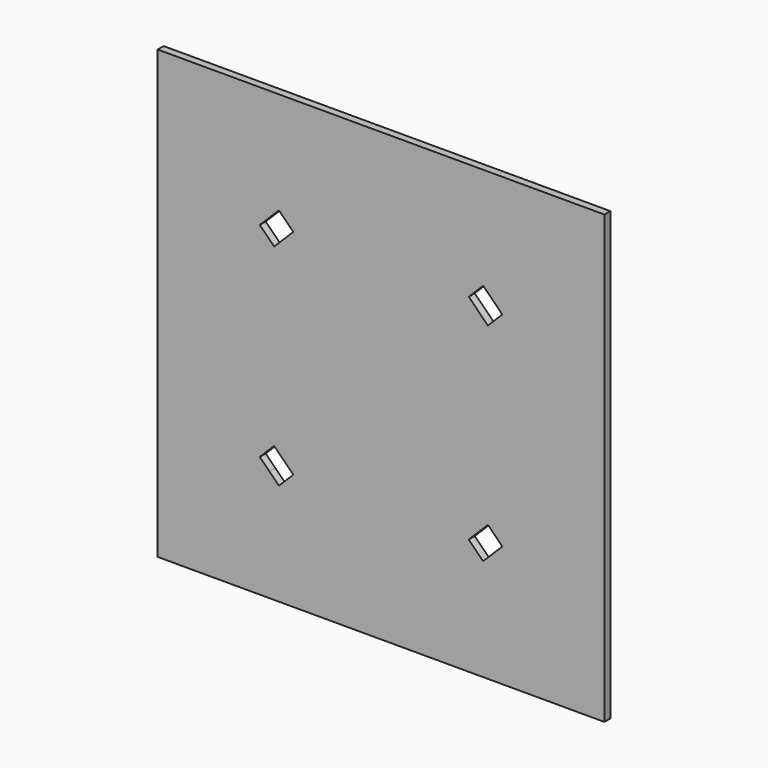
from build123d import *

# Parameters (mm, degrees)
F0_W     = 254
F0_H     = 254
F1_DEPTH = 25.4


with BuildPart() as f1:
    # F0 (on Front) → F1 (new body)
    with BuildSketch(Plane.XZ):
        Polygon((-306.2196969569, 817.159200755), (-611.0196969569, 817.159200755), (-611.0196969569, 512.359200755), (-611.0196969569, 207.559200755), (-611.0196969569, -706.840799245), (912.9803030431, -706.840799245), (912.9803030431, 817.159200755), (-1.4196969569, 817.159200755), align=None)
        with Locations((-153.8196969569, -554.440799245)):
            Rectangle(F0_W, F0_H, mode=Mode.SUBTRACT)
        with Locations((-458.6196969569, -249.640799245)):
            Rectangle(F0_W, F0_H, mode=Mode.SUBTRACT)
        with Locations((455.7803030431, -554.440799245)):
            Rectangle(F0_W, F0_H, mode=Mode.SUBTRACT)
        with Locations((760.5803030431, -249.640799245)):
            Rectangle(F0_W, F0_H, mode=Mode.SUBTRACT)
        with Locations((-458.6196969569, 359.959200755)):
            Rectangle(F0_W, F0_H, mode=Mode.SUBTRACT)
        Polygon((608.1803030431, 512.359200755), (608.1803030431, -402.040799245), (-306.2196969569, -402.040799245), (-306.2196969569, 207.559200755), (-306.2196969569, 512.359200755), (-1.4196969569, 512.359200755), align=None, mode=Mode.SUBTRACT)
        with Locations((-153.8196969569, 664.759200755)):
            Rectangle(F0_W, F0_H, mode=Mode.SUBTRACT)
        with Locations((760.5803030431, 359.959200755)):
            Rectangle(F0_W, F0_H, mode=Mode.SUBTRACT)
        with Locations((455.7803030431, 664.759200755)):
            Rectangle(F0_W, F0_H, mode=Mode.SUBTRACT)
        Polygon((-306.2196969569, -402.040799245), (608.1803030431, -402.040799245), (608.1803030431, 512.359200755), (-1.4196969569, 512.359200755), (-306.2196969569, 512.359200755), (-306.2196969569, 207.559200755), align=None)
        Polygon((-179.2196969569, 486.959200755), (582.7803030431, 486.959200755), (582.7803030431, -376.640799245), (-280.8196969569, -376.640799245), (-280.8196969569, 385.359200755), (-280.8196969569, 486.959200755), align=None, mode=Mode.SUBTRACT)
        Polygon((582.7803030431, -376.640799245), (582.7803030431, 486.959200755), (-179.2196969569, 486.959200755), (-280.8196969569, 486.959200755), (-280.8196969569, 385.359200755), (-280.8196969569, -376.640799245), align=None)
        Polygon((-262.662927957, -293.197568245), (-213.6666505604, -244.2012908484), (-148.3801885602, -309.4877528486), (-197.3764659568, -358.4840302451), (-230.0196969569, -325.840799245), align=None, mode=Mode.SUBTRACT)
        Polygon((450.3407946465, -309.4877528486), (515.6272566467, -244.2012908484), (564.6235340432, -293.197568245), (531.9803030431, -325.840799245), (499.337072043, -358.4840302451), align=None, mode=Mode.SUBTRACT)
        Polygon((-230.0196969569, 436.159200755), (-197.3764659568, 468.802431755), (-148.3801885602, 419.8061543585), (-213.6666505604, 354.5196923583), (-262.662927957, 403.5159697549), align=None, mode=Mode.SUBTRACT)
        Polygon((564.6235340432, 403.5159697549), (515.6272566467, 354.5196923583), (450.3407946465, 419.8061543585), (499.337072043, 468.802431755), (531.9803030431, 436.159200755), align=None, mode=Mode.SUBTRACT)
        with Locations((-458.6196969569, 359.959200755)):
            Rectangle(F0_W, F0_H)
        with Locations((-153.8196969569, 664.759200755)):
            Rectangle(F0_W, F0_H)
        with Locations((455.7803030431, 664.759200755)):
            Rectangle(F0_W, F0_H)
        with Locations((760.5803030431, 359.959200755)):
            Rectangle(F0_W, F0_H)
        with Locations((760.5803030431, -249.640799245)):
            Rectangle(F0_W, F0_H)
        with Locations((455.7803030431, -554.440799245)):
            Rectangle(F0_W, F0_H)
        with Locations((-153.8196969569, -554.440799245)):
            Rectangle(F0_W, F0_H)
        with Locations((-458.6196969569, -249.640799245)):
            Rectangle(F0_W, F0_H)
    extrude(amount=F1_DEPTH)


solid = f1.part
